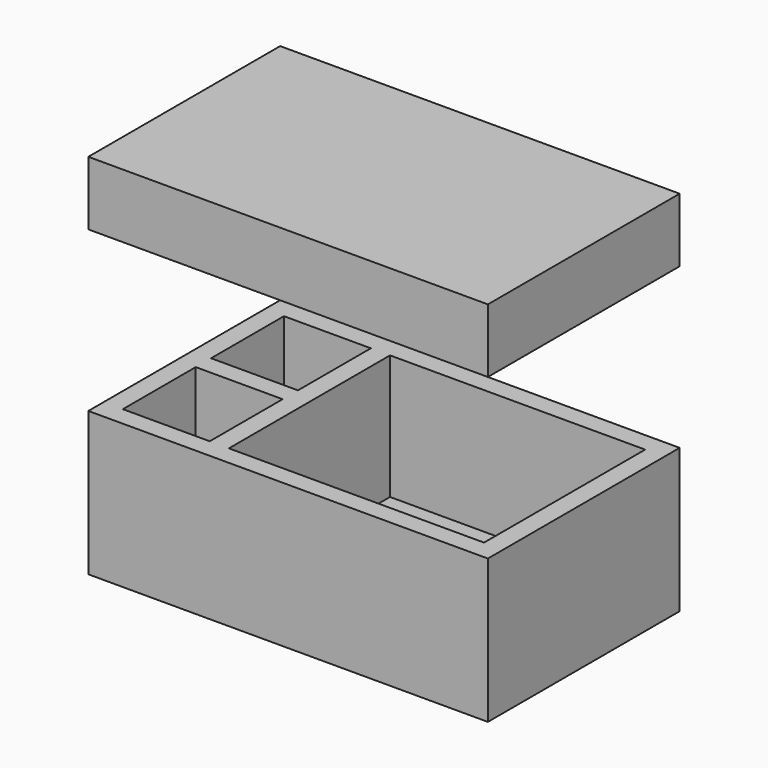
from build123d import *

# Parameters (mm, degrees)
F0_W     = 250
F0_H     = 150
F1_DEPTH = 90
F2_T     = -12
F3_W     = 54.3636363636
F3_H     = 12
F3_W_2   = 5.5963844467
F4_DEPTH = 78
F6_W     = 250
F6_H     = 150
F7_DEPTH = 40
F8_T     = -12


with BuildPart() as f1:
    # F0 (on Top) → F1 (new body)
    with BuildSketch(Plane.XY):
        Rectangle(F0_W, F0_H)
    extrude(amount=F1_DEPTH)

    # F2
    f2_openings = [f1.faces().sort_by_distance(p)[0] for p in [
        (0, 0, 90),
    ]]
    offset(amount=F2_T, openings=f2_openings)

    # F3 (on face) → F4 (join)
    with BuildSketch(Plane.XY.offset(12)):
        with Locations((-85.8181818182, 0)):
            Rectangle(F3_W, F3_H)
        Polygon((-46.6363636364, -63), (-46.6363636364, 63), (-58.6363636364, 63), (-58.6363636364, 6), (-53.0399791896, 6), (-53.0399791896, -6), (-58.6363636364, -6), (-58.6363636364, -63), align=None)
        with Locations((-55.838171413, 0)):
            Rectangle(F3_W_2, F3_H)
    extrude(amount=F4_DEPTH)


with BuildPart() as f7:
    # F6 (on offset) → F7 (new body)
    with BuildSketch(Plane.XY.offset(190)):
        Rectangle(F6_W, F6_H)
    extrude(amount=F7_DEPTH)

    # F8
    f8_openings = [f7.faces().sort_by_distance(p)[0] for p in [
        (0, 0, 190),
    ]]
    offset(amount=F8_T, openings=f8_openings)


solid = Compound([f1.part, f7.part])
